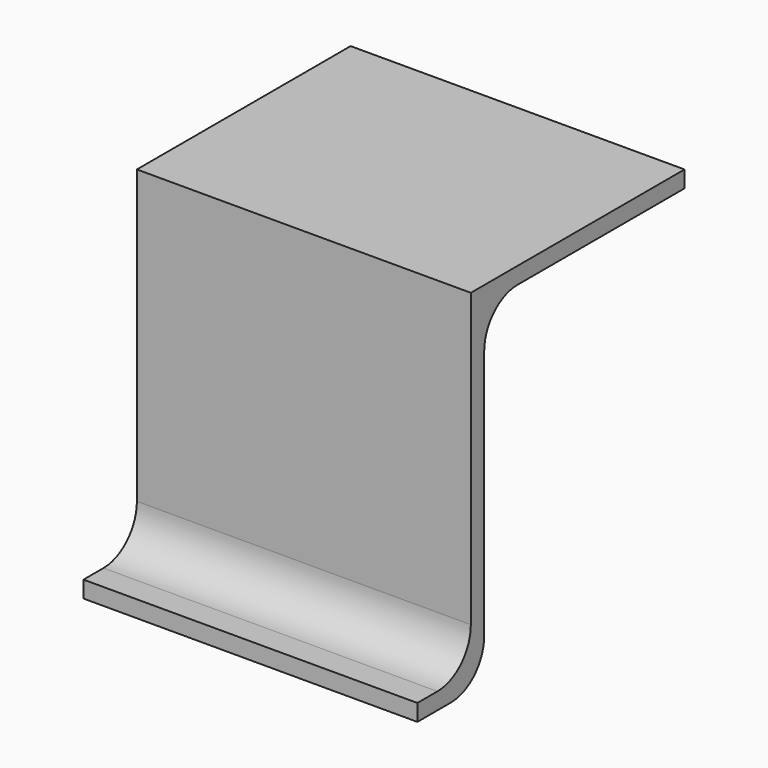
from build123d import *

# Parameters (mm, degrees)
F1_DEPTH = 2000
F2_R     = 250


with BuildPart() as f1:
    # F0 (on Right) → F1 (new body)
    with BuildSketch(Plane.YZ):
        Polygon((0, 100), (0, 0), (500, 0), (500, 2000), (2000, 2000), (2000, 2100), (400, 2100), (400, 100), align=None)
    extrude(amount=F1_DEPTH)

    # F2
    f2_edges = [f1.edges().sort_by_distance(p)[0] for p in [
        (1000, 500, 2000),
        (1000, 500, 0),
        (1000, 400, 100),
    ]]
    fillet(f2_edges, radius=F2_R)


solid = f1.part
